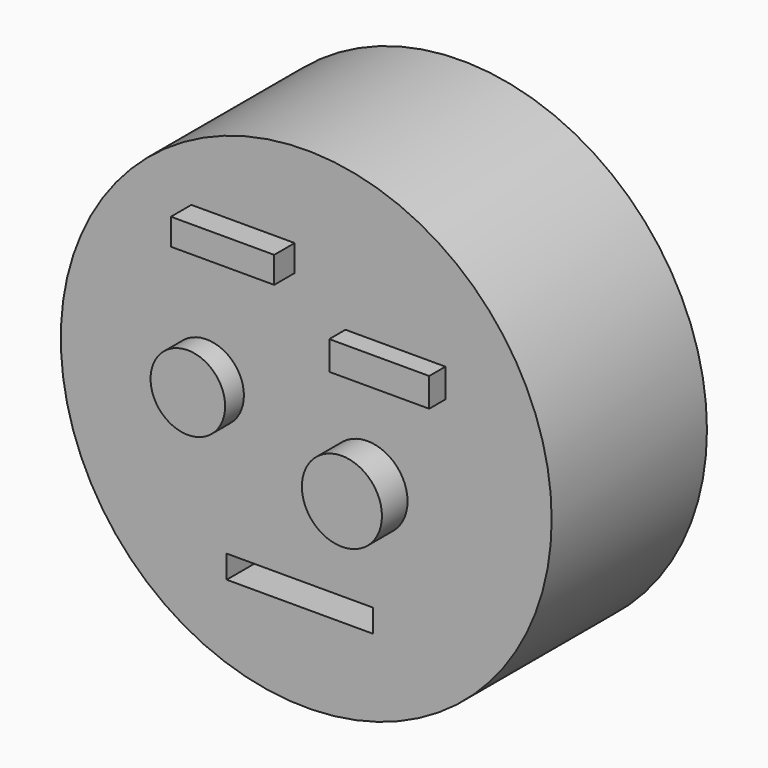
from build123d import *

# Parameters (mm, degrees)
F0_R        = 58.45034
F1_DEPTH    = 46.228
F2_W        = 24.600874
F2_H        = 6.29507
F3_DEPTH    = 6.096
F4_W        = 23.794292
F4_H        = 6.868821
F5_DEPTH    = 4.826
F6_R        = 8.879955
F7_DEPTH    = 5.588
F8_R        = 9.533495
F9_DEPTH    = 7.62
F1_FACE_R   = 58.45034
F1_FACE_R_2 = 8.879955
F1_FACE_R_3 = 9.533495
F1_FACE_W   = 24.600874
F1_FACE_H   = 6.29507
F1_FACE_W_2 = 23.794292
F1_FACE_H_2 = 6.86882
F11_DEPTH   = 6.604
F12_W       = 34.83605
F12_H       = 5.481868
F13_DEPTH   = 11.176


with BuildPart() as f1:
    # F0 (on Front) → F1 (new body)
    with BuildSketch(Plane.XZ):
        with Locations((-49.329195, 18.883251)):
            Circle(F0_R)
    extrude(amount=F1_DEPTH)

    # F2 (on face) → F3 (join)
    with BuildSketch(Plane.XZ.offset(46.228)):
        with Locations((-64.380275, 53.784102)):
            Rectangle(F2_W, F2_H)
    extrude(amount=F3_DEPTH)

    # F4 (on face) → F5 (join)
    with BuildSketch(Plane.XZ.offset(46.228)):
        with Locations((-28.083899, 39.257792)):
            Rectangle(F4_W, F4_H)
    extrude(amount=F5_DEPTH)

    # F6 (on face) → F7 (join)
    with BuildSketch(Plane.XZ.offset(46.228)):
        with Locations((-73.05108, 21.034079)):
            Circle(F6_R)
    extrude(amount=F7_DEPTH)

    # F8 (on face) → F9 (join)
    with BuildSketch(Plane.XZ.offset(46.228)):
        with Locations((-34.738239, 11.52609)):
            Circle(F8_R)
    extrude(amount=F9_DEPTH)

    # F1_face (on face) → F11 (join)
    with BuildSketch(Plane(origin=(-49.329195, -46.228, 18.883251), x_dir=(1, 0, 0), z_dir=(0, -1, 0))):
        Circle(F1_FACE_R)
        with Locations((-23.721885, 2.150828)):
            Circle(F1_FACE_R_2, mode=Mode.SUBTRACT)
        with Locations((14.590956, -7.357161)):
            Circle(F1_FACE_R_3, mode=Mode.SUBTRACT)
        with Locations((-15.05108, 34.900852)):
            Rectangle(F1_FACE_W, F1_FACE_H, mode=Mode.SUBTRACT)
        with Locations((21.245296, 20.374542)):
            Rectangle(F1_FACE_W_2, F1_FACE_H_2, mode=Mode.SUBTRACT)
    extrude(amount=-F11_DEPTH)

    # F12 (on face) → F13 (cut)
    with BuildSketch(Plane.XZ.offset(46.228)):
        with Locations((-50.854826, -16.175416)):
            Rectangle(F12_W, F12_H)
    extrude(amount=-F13_DEPTH, mode=Mode.SUBTRACT)


solid = f1.part
